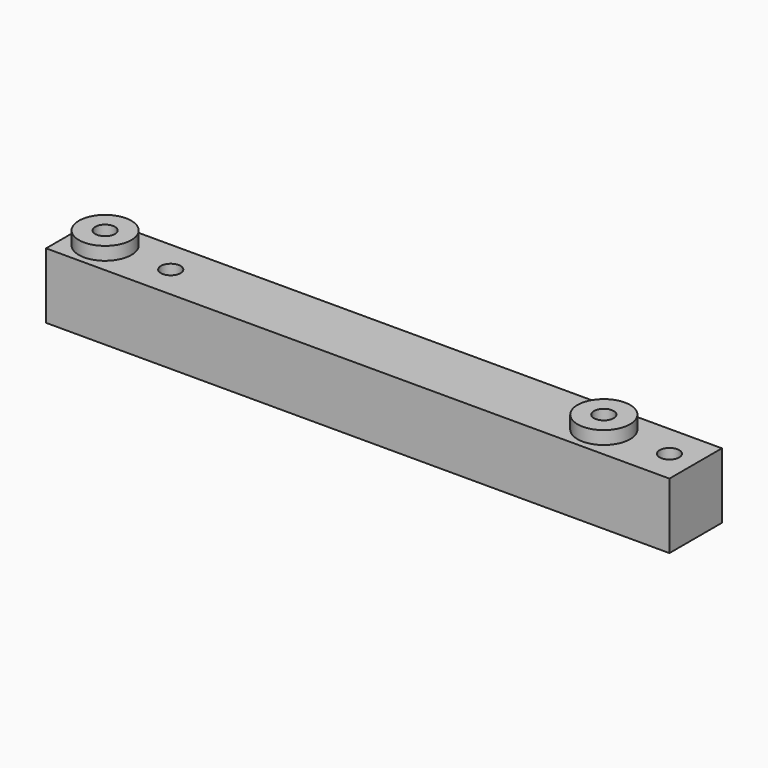
from build123d import *

# Parameters (mm, degrees)
SKETCH_W      = 95
SKETCH_H      = 10
SKETCH_R      = 1.5
PAD_DEPTH     = 10
SKETCH001_R   = 4
SKETCH001_R_2 = 1.5
PAD001_DEPTH  = 2


with BuildPart() as part:
    # Sketch → Pad (new body)
    with BuildSketch(Plane.XY):
        with Locations((47.5, 5)):
            Rectangle(SKETCH_W, SKETCH_H)
        with Locations((5, 5)):
            Circle(SKETCH_R, mode=Mode.SUBTRACT)
        with Locations((81, 5)):
            Circle(SKETCH_R, mode=Mode.SUBTRACT)
        with Locations((91, 5)):
            Circle(SKETCH_R, mode=Mode.SUBTRACT)
        with Locations((15, 5)):
            Circle(SKETCH_R, mode=Mode.SUBTRACT)
    extrude(amount=PAD_DEPTH)

    # Sketch001 (on Face10 of Pad) → Pad001 (join)
    with BuildSketch(Plane.XY.offset(10)):
        with Locations((5, 5)):
            Circle(SKETCH001_R)
        with Locations((5, 5)):
            Circle(SKETCH001_R_2, mode=Mode.SUBTRACT)
        with Locations((81, 5)):
            Circle(SKETCH001_R)
        with Locations((81, 5)):
            Circle(SKETCH001_R_2, mode=Mode.SUBTRACT)
    extrude(amount=PAD001_DEPTH)


solid = part.part
